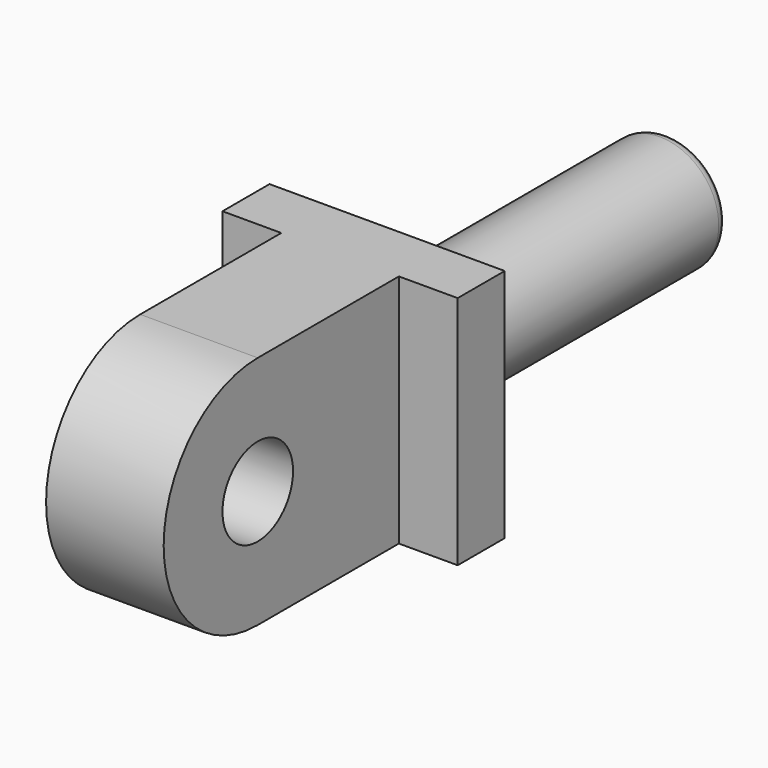
from build123d import *

# Parameters (mm, degrees)
F0_W     = 50.8
F0_H     = 50.8
F1_DEPTH = 12.7
F2_W     = 12.7
F2_H     = 50.8
F3_DEPTH = 38.1
F5_DEPTH = 25.4
F6_R     = 9.525
F7_DEPTH = 25.4
F8_R     = 12.7
F9_DEPTH = 76.2
F10_R    = 2.54
F11_R    = 5.08


with BuildPart() as f1:
    # F0 (on Front) → F1 (new body)
    with BuildSketch(Plane.XZ):
        with Locations((25.4, 25.4)):
            Rectangle(F0_W, F0_H)
    extrude(amount=F1_DEPTH)

    # F2 (on face) → F3 (join)
    with BuildSketch(Plane.XZ.offset(12.7)):
        with Locations((19.05, 25.4)):
            Rectangle(F2_W, F2_H)
        with Locations((31.75, 25.4)):
            Rectangle(F2_W, F2_H)
    extrude(amount=F3_DEPTH)

    # F4 (on face) → F5 (join)
    with BuildSketch(Plane.YZ.offset(38.1)):
        with BuildLine():
            Line((-50.8, 0), (-50.8, 50.8))
            ThreePointArc((-50.8, 50.8), (-76.2, 25.4), (-50.8, 0))
        make_face()
    extrude(amount=-F5_DEPTH)

    # F6 (on face) → F7 (cut)
    with BuildSketch(Plane.YZ.offset(38.1)):
        with Locations((-50.8, 25.4)):
            Circle(F6_R)
    extrude(amount=-F7_DEPTH, mode=Mode.SUBTRACT)

    # F8 (on face) → F9 (join)
    with BuildSketch(Plane(origin=(0, 0, 0), x_dir=(-1, 0, 0), z_dir=(0, 1, 0))):
        with Locations((-25.4, 25.4)):
            Circle(F8_R)
    extrude(amount=F9_DEPTH)

    # F10
    f10_edges = [f1.edges().sort_by_distance(p)[0] for p in [
        (38.1, 76.2, 25.4),
    ]]
    fillet(f10_edges, radius=F10_R)

    # F11
    f11_edges = [f1.edges().sort_by_distance(p)[0] for p in [
        (12.7, 36.83, 25.4),
        (38.1, 73.66, 25.4),
        (38.1, 0, 25.4),
    ]]
    fillet(f11_edges, radius=F11_R)


solid = f1.part
